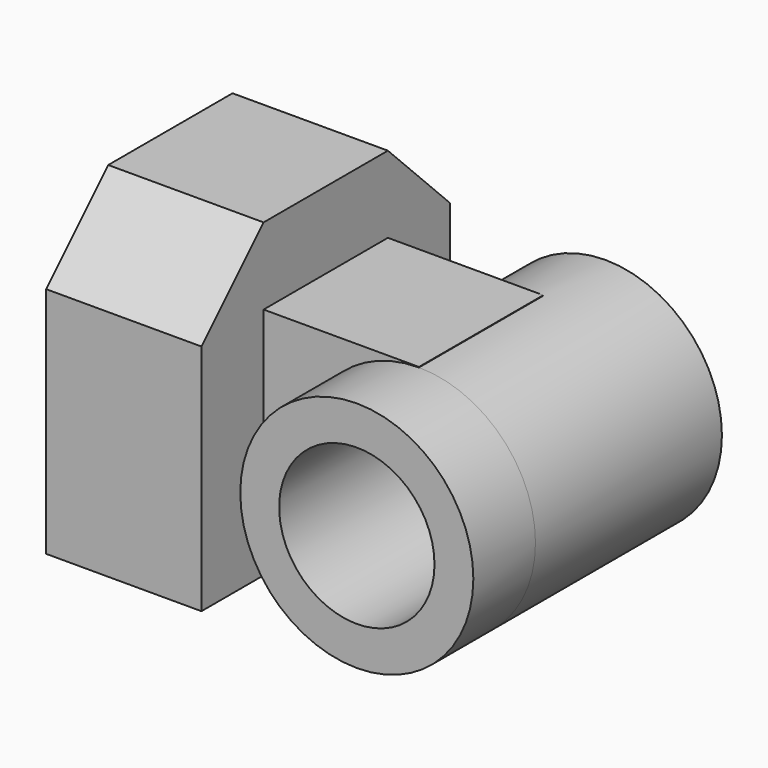
from build123d import *

# Parameters (mm, degrees)
F0_W          = 12.7
F0_H          = 25.4
F1_DEPTH      = 25.4
F3_DEPTH      = 12.701
F4_W          = 12.7
F4_H          = 19.128681
F5_DEPTH      = 12.7
F6_R          = 9.525
F7_DEPTH      = 6.35
F7_DEPTH_BACK = 19.05
F8_R          = 6.35
F9_DEPTH      = 25.401


with BuildPart() as f1:
    # F0 (on Top) → F1 (new body)
    with BuildSketch(Plane.XY):
        with Locations((-6.35, 12.7)):
            Rectangle(F0_W, F0_H)
    extrude(amount=F1_DEPTH)

    # F2 (on face) → F3 (cut, through all)
    with BuildSketch(Plane.YZ):
        Polygon((25.4, 19.05), (25.4, 25.4), (19.05, 25.4), align=None)
        Polygon((0, 25.4), (0, 19.05), (6.35, 25.4), align=None)
    extrude(amount=-F3_DEPTH, mode=Mode.SUBTRACT)

    # F4 (on face) → F5 (join)
    with BuildSketch(Plane.YZ):
        with Locations((12.7, 9.564341)):
            Rectangle(F4_W, F4_H)
    extrude(amount=F5_DEPTH)

    # F6 (on face) → F7 (join, two sides)
    with BuildSketch(Plane.XZ.offset(-6.35)) as f7_sk:
        with Locations((12.7, 9.56434)):
            Circle(F6_R)
    extrude(amount=F7_DEPTH)
    extrude(f7_sk.sketch, amount=-F7_DEPTH_BACK)

    # F8 (on face) → F9 (cut, through all)
    with BuildSketch(Plane.XZ):
        with Locations((12.7, 9.56434)):
            Circle(F8_R)
    extrude(amount=-F9_DEPTH, mode=Mode.SUBTRACT)


solid = f1.part
